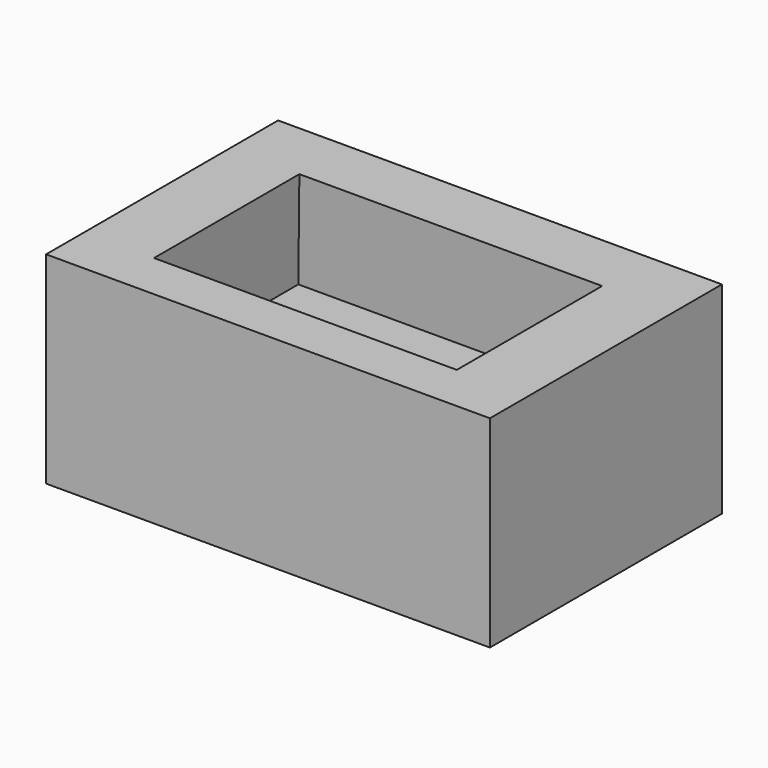
from build123d import *

# Parameters (mm, degrees)
F0_W     = 55.8467358351
F0_H     = 36.4914648235
F1_DEPTH = 25.4
F2_W     = 38.1
F2_H     = 22.86
F3_DEPTH = 12.7
F3_TAPER = -3


with BuildPart() as f1:
    # F0 (on Top) → F1 (new body)
    with BuildSketch(Plane.XY):
        with Locations((27.9233679175, 18.2457324117)):
            Rectangle(F0_W, F0_H)
    extrude(amount=F1_DEPTH)

    # F2 (on face) → F3 (cut)
    with BuildSketch(Plane.XY.offset(25.4)):
        with Locations((27.8235403821, 17.4414648235)):
            Rectangle(F2_W, F2_H)
    extrude(amount=-F3_DEPTH, taper=F3_TAPER, mode=Mode.SUBTRACT)


solid = f1.part
